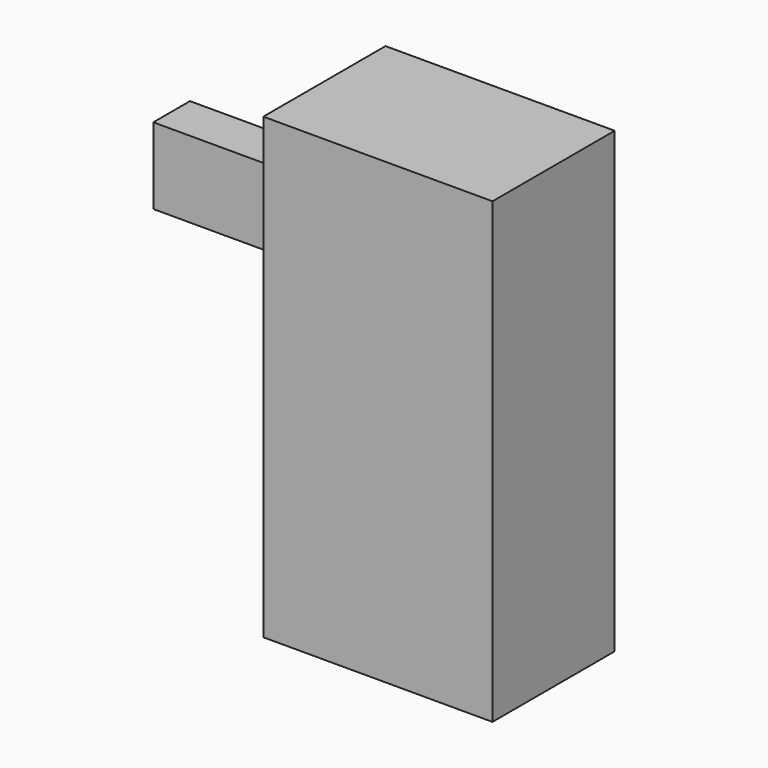
from build123d import *

# Parameters (mm, degrees)
F0_W     = 15
F0_H     = 30
F1_DEPTH = 10
F2_W     = 3
F2_H     = 5
F3_DEPTH = 10


with BuildPart() as f1:
    # F0 (on Front) → F1 (new body)
    with BuildSketch(Plane.XZ):
        Rectangle(F0_W, F0_H)
    extrude(amount=-F1_DEPTH)

    # F2 (on face) → F3 (join)
    with BuildSketch(Plane(origin=(-7.5, 0, 0), x_dir=(0, -1, 0), z_dir=(-1, 0, 0))):
        with Locations((-5, 7.5)):
            Rectangle(F2_W, F2_H)
    extrude(amount=F3_DEPTH)


solid = f1.part
